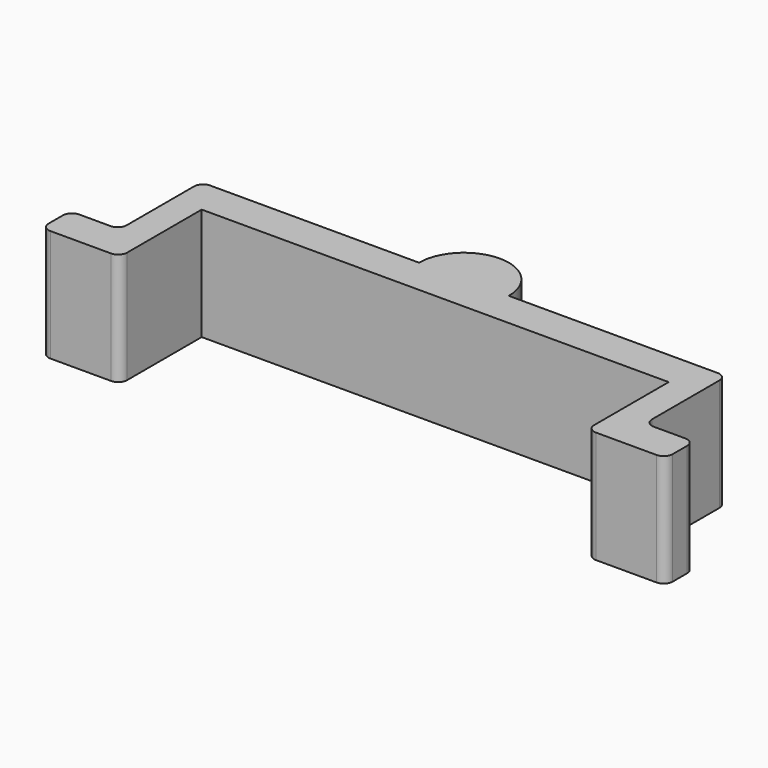
from build123d import *

# Parameters (mm, degrees)
F1_DEPTH = 25


with BuildPart() as f1:
    # F0 (on Top) → F1 (new body)
    with BuildSketch(Plane.XY):
        with BuildLine():
            Line((-42, 0), (0, 0))
            Line((0, 0), (10, 0))
            Line((10, 0), (20, 0))
            Line((20, 0), (62, 0))
            Line((62, 0), (62, -20.750001))
            ThreePointArc((62, -20.750001), (62.585786, -22.164214), (64, -22.750001))
            Line((64, -22.750001), (77.499998, -22.750001))
            ThreePointArc((77.499998, -22.750001), (78.914212, -22.164214), (79.499998, -20.750001))
            Line((79.499998, -20.750001), (79.499998, -16.750001))
            ThreePointArc((79.499998, -16.750001), (78.914212, -15.335787), (77.499998, -14.750001))
            Line((77.499998, -14.750001), (70.499998, -14.750001))
            ThreePointArc((70.499998, -14.750001), (69.085785, -14.164214), (68.499998, -12.750001))
            Line((68.499998, -12.750001), (68.499998, 6))
            ThreePointArc((68.499998, 6), (67.914212, 7.414214), (66.499998, 8))
            Line((66.499998, 8), (20, 8))
            Line((20, 8), (0, 8))
            Line((0, 8), (-46.499998, 8))
            ThreePointArc((-46.499998, 8), (-47.914212, 7.414214), (-48.499998, 6))
            Line((-48.499998, 6), (-48.499998, -12.750001))
            ThreePointArc((-48.499998, -12.750001), (-49.085785, -14.164214), (-50.499998, -14.750001))
            Line((-50.499998, -14.750001), (-57.499998, -14.750001))
            ThreePointArc((-57.499998, -14.750001), (-58.914212, -15.335787), (-59.499998, -16.750001))
            Line((-59.499998, -16.750001), (-59.499998, -20.750001))
            ThreePointArc((-59.499998, -20.750001), (-58.914212, -22.164214), (-57.499998, -22.750001))
            Line((-57.499998, -22.750001), (-44, -22.750001))
            ThreePointArc((-44, -22.750001), (-42.585786, -22.164214), (-42, -20.750001))
            Line((-42, -20.750001), (-42, 0))
        make_face()
        with BuildLine():
            ThreePointArc((20, 8), (10, 18), (0, 8))
            Line((0, 8), (20, 8))
        make_face()
    extrude(amount=F1_DEPTH)


solid = f1.part
